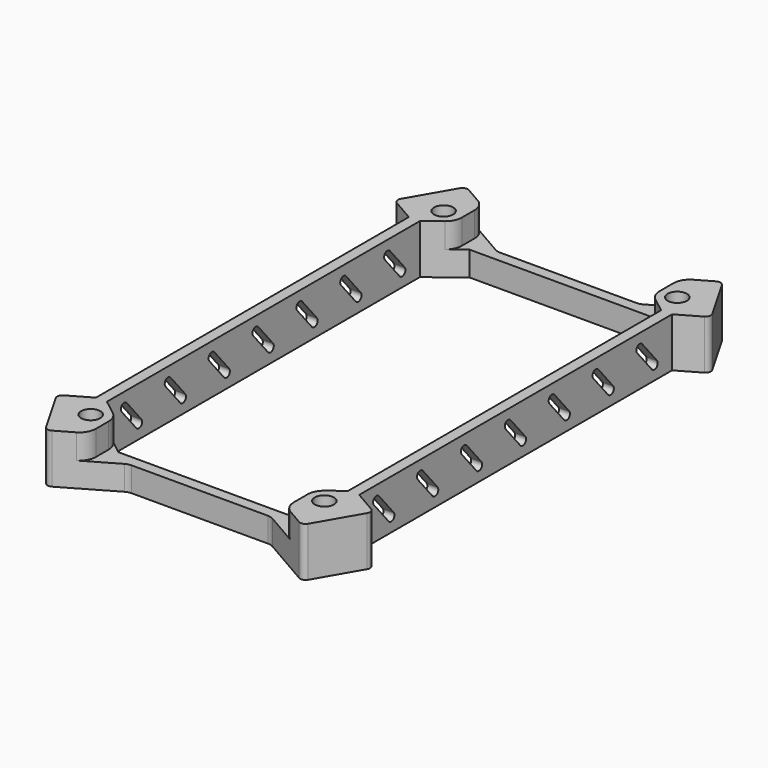
from build123d import *

# Parameters (mm, degrees)
SKETCH004_W   = 36.161861
SKETCH004_H   = 4.748486
PAD002_DEPTH  = 100
PAD001_DEPTH  = 50
ARRAY_Y_COUNT = 7
ARRAY_Y_PITCH = 10
SKETCH_R      = 1.75
PAD_DEPTH     = 9
FILLET_R      = 1
FILLET002_R   = 3
FILLET003_R   = 2


with BuildPart() as pad002:
    # Sketch004 → Pad002 (new body)
    with BuildSketch(Plane(origin=(1, -50, 0), x_dir=(1, 0, 0), z_dir=(0, -1, 0))):
        with Locations((0.005565, 6.850441)):
            Rectangle(SKETCH004_W, SKETCH004_H)
    extrude(amount=-PAD002_DEPTH)


with BuildPart() as array:
    # Sketch003 → Pad001 (new body)
    with BuildSketch(Plane(origin=(-23.0697, 0, 0), x_dir=(0, -1, 0), z_dir=(-1, 0, 0))):
        with BuildLine():
            Line((-1.127729, 2.982091), (2.228669, 6.982091))
            ThreePointArc((3.377736, 6.017909), (3.285293, 7.074533), (2.228669, 6.982091))
            Line((0.021337, 2.017909), (3.377736, 6.017909))
            ThreePointArc((-1.127729, 2.982091), (-1.035287, 1.925467), (0.021337, 2.017909))
        make_face()
    extrude(amount=-PAD001_DEPTH)

    # Array Y: Array ×7


with BuildPart() as array_1:
    add(array.part)
    with Locations(*[(0, i * ARRAY_Y_PITCH, 0) for i in range(1, ARRAY_Y_COUNT)]):
        add(array.part)


with BuildPart() as array_2:
    # Array placement: moved
    add(array_1.part.moved(Location((0, -29.5, 0))))


with BuildPart() as fillet003:
    # Sketch → Pad (new body)
    with BuildSketch(Plane.XY):
        Polygon((-12.0697, 41.4218), (13.9303, 41.4218), (24.322605, 47.4218), (29.822605, 37.895521), (24.9303, 35.070947), (24.9303, -36.227347), (29.822605, -39.051921), (24.322605, -48.5782), (13.9303, -42.5782), (-12.0697, -42.5782), (-22.462005, -48.5782), (-27.962005, -39.051921), (-23.0697, -36.227347), (-23.0697, 35.070947), (-27.962005, 37.895521), (-22.462005, 47.4218), align=None)
        with Locations((-20.37566, -40.791855)):
            Circle(SKETCH_R, mode=Mode.SUBTRACT)
        with Locations((22.23626, -40.791855)):
            Circle(SKETCH_R, mode=Mode.SUBTRACT)
        with Locations((22.23626, 39.635455)):
            Circle(SKETCH_R, mode=Mode.SUBTRACT)
        with Locations((-20.37566, 39.635455)):
            Circle(SKETCH_R, mode=Mode.SUBTRACT)
        Polygon((22.9303, 35.070947), (22.9303, -36.227347), (17.35405, -40.5782), (-15.49345, -40.5782), (-21.0697, -36.227347), (-21.0697, 35.070947), (-15.49345, 39.4218), (17.35405, 39.4218), align=None, mode=Mode.SUBTRACT)
    extrude(amount=PAD_DEPTH)

    # Fillet
    fillet_edges = [fillet003.edges().sort_by_distance(p)[0] for p in [
        (-22.462005, 47.4218, 4.5),
        (24.322605, 47.4218, 4.5),
        (29.822605, 37.895521, 4.5),
        (29.822605, -39.051921, 4.5),
        (24.322605, -48.5782, 4.5),
        (-22.462005, -48.5782, 4.5),
        (-27.962005, -39.051921, 4.5),
        (-27.962005, 37.895521, 4.5),
    ]]
    fillet(fillet_edges, radius=FILLET_R)

    # Cut: cut Array
    add(array_2.part, mode=Mode.SUBTRACT)

    # Cut001: cut Pad002
    add(pad002.part, mode=Mode.SUBTRACT)

    # Fillet002
    fillet002_edges = [fillet003.edges().sort_by_distance(p)[0] for p in [
        (-17.075366, -39.343915, 6.738099),
        (-17.075366, -45.468223, 6.738099),
        (19.086495, -45.555131, 6.738099),
        (19.086495, -39.226465, 6.738099),
        (-17.075366, 44.311823, 6.738099),
        (-17.075366, 38.187515, 6.738099),
        (19.086495, 44.398731, 6.738099),
        (19.086495, 38.070065, 6.738099),
    ]]
    fillet(fillet002_edges, radius=FILLET002_R)

    # Fillet003
    fillet003_edges = [fillet003.edges().sort_by_distance(p)[0] for p in [
        (-12.0697, -42.5782, 2.238099),
        (13.9303, -42.5782, 2.238099),
        (-12.0697, 41.4218, 2.238099),
        (13.9303, 41.4218, 2.238099),
    ]]
    fillet(fillet003_edges, radius=FILLET003_R)


solid = fillet003.part
